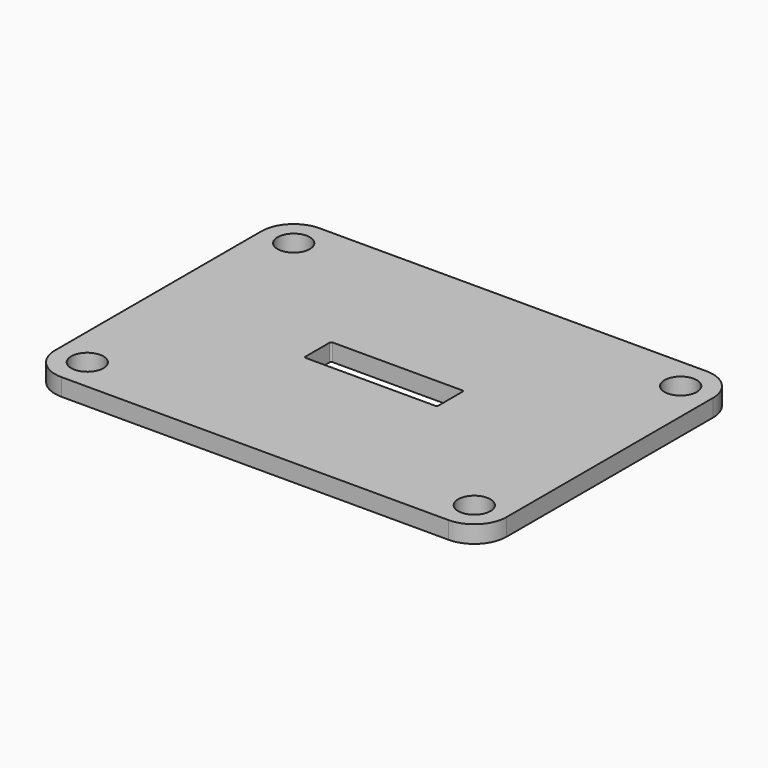
from build123d import *

# Parameters (mm, degrees)
F0_R     = 3.175
F1_DEPTH = 1.70815


with BuildPart() as f1:
    # F0 (on Top) → F1 (new body, symmetric)
    with BuildSketch(Plane.XY):
        with BuildLine():
            ThreePointArc((44.45, 25.4), (42.590128, 29.890128), (38.1, 31.75))
            Line((38.1, 31.75), (-38.1, 31.75))
            ThreePointArc((-38.1, 31.75), (-42.590128, 29.890128), (-44.45, 25.4))
            Line((-44.45, 25.4), (-44.45, -25.4))
            ThreePointArc((-44.45, -25.4), (-42.590128, -29.890128), (-38.1, -31.75))
            Line((-38.1, -31.75), (38.1, -31.75))
            ThreePointArc((38.1, -31.75), (42.590128, -29.890128), (44.45, -25.4))
            Line((44.45, -25.4), (44.45, 25.4))
        make_face()
        with Locations((-38.1, -25.4)):
            Circle(F0_R, mode=Mode.SUBTRACT)
        with Locations((38.1, -25.4)):
            Circle(F0_R, mode=Mode.SUBTRACT)
        with Locations((-38.1, 25.4)):
            Circle(F0_R, mode=Mode.SUBTRACT)
        with BuildLine():
            Line((-12.7635, 3.302), (12.7635, 3.302))
            ThreePointArc((12.7635, 3.302), (12.988006, 3.209006), (13.081, 2.9845))
            Line((13.081, 2.9845), (13.081, -2.9845))
            ThreePointArc((13.081, -2.9845), (12.988006, -3.209006), (12.7635, -3.302))
            Line((12.7635, -3.302), (-12.7635, -3.302))
            ThreePointArc((-12.7635, -3.302), (-12.988006, -3.209006), (-13.081, -2.9845))
            Line((-13.081, -2.9845), (-13.081, 2.9845))
            ThreePointArc((-13.081, 2.9845), (-12.988006, 3.209006), (-12.7635, 3.302))
        make_face(mode=Mode.SUBTRACT)
        with Locations((38.1, 25.4)):
            Circle(F0_R, mode=Mode.SUBTRACT)
    extrude(amount=F1_DEPTH, both=True)


solid = f1.part
